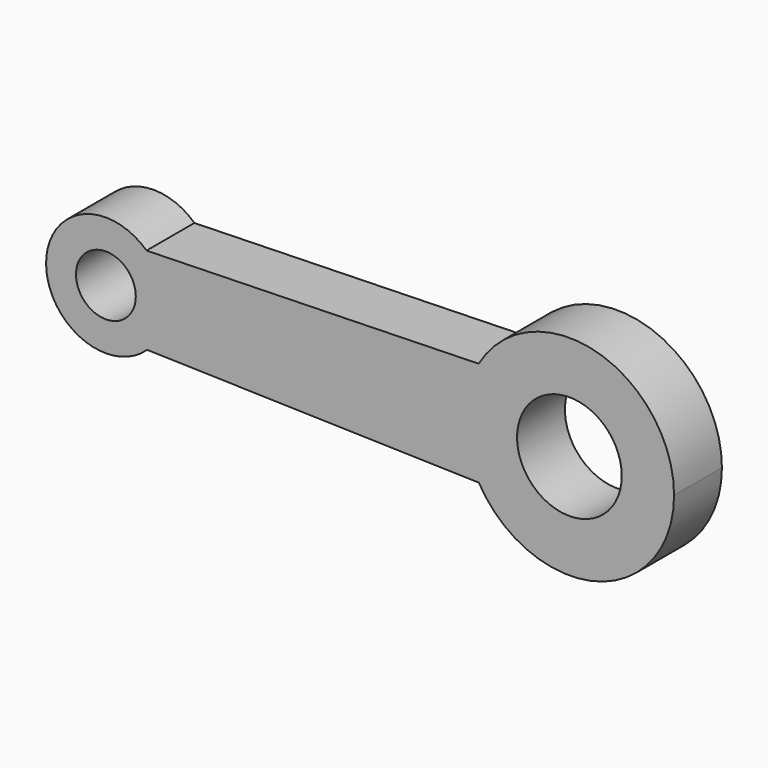
from build123d import *

# Parameters (mm, degrees)
F0_R     = 2
F0_R_2   = 3.5
F1_DEPTH = 4


with BuildPart() as f1:
    # F0 (on Front) → F1 (new body)
    with BuildSketch(Plane.XZ):
        with BuildLine():
            ThreePointArc((-62.617437, 9.265171), (-63.555259, 12.762549), (-62.620059, 16.260627))
            Line((-62.620059, 16.260627), (-84.836128, 15.698825))
            ThreePointArc((-84.836128, 15.698825), (-83.889436, 14.365714), (-83.55526, 12.765171))
            ThreePointArc((-83.55526, 12.765171), (-83.880063, 11.186271), (-84.801723, 9.863786))
            Line((-84.801723, 9.863786), (-62.617437, 9.265171))
        make_face()
        with BuildLine():
            ThreePointArc((-83.55526, 12.765171), (-83.889436, 14.365714), (-84.836128, 15.698825))
            ThreePointArc((-84.836128, 15.698825), (-91.55519, 12.741587), (-84.801723, 9.863786))
            ThreePointArc((-84.801723, 9.863786), (-83.880063, 11.186271), (-83.55526, 12.765171))
        make_face()
        with Locations((-87.55526, 12.765171)):
            Circle(F0_R, mode=Mode.SUBTRACT)
        with BuildLine():
            ThreePointArc((-62.617437, 9.265171), (-54.743526, 6.003691), (-49.55526, 12.765171))
            ThreePointArc((-49.55526, 12.765171), (-54.74606, 19.527331), (-62.620059, 16.260627))
            ThreePointArc((-62.620059, 16.260627), (-63.555259, 12.762549), (-62.617437, 9.265171))
        make_face()
        with Locations((-56.55526, 12.765171)):
            Circle(F0_R_2, mode=Mode.SUBTRACT)
    extrude(amount=F1_DEPTH)


solid = f1.part
